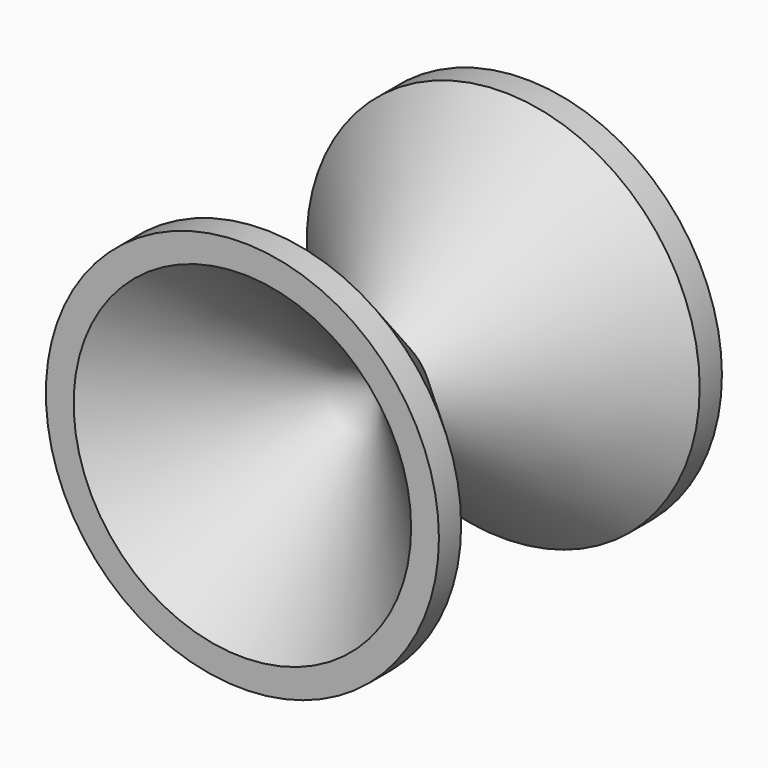
from build123d import *


with BuildPart() as f1:
    # F0 (on Top) → F1 (revolve)
    with BuildSketch(Plane.XY):
        Polygon((20, 0), (17.171573, 0), (0, -17.171573), (0, -18.828427), (17.171573, -36), (20, -36), (20, -33.171573), (4.828427, -18), (20, -2.828427), align=None)
    revolve(axis=Axis((0, -18, 0), (0, -1, 0)))


solid = f1.part
